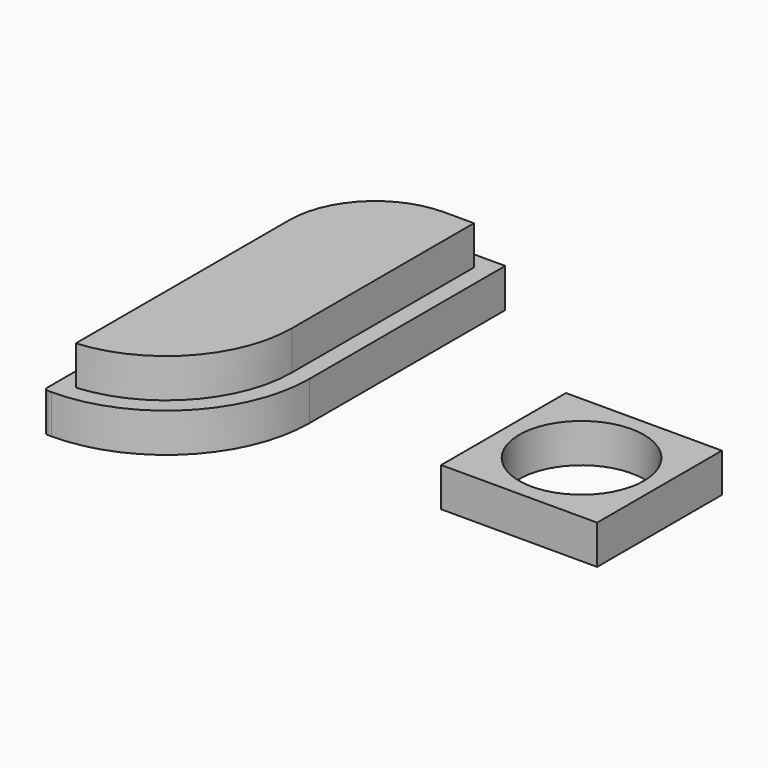
from build123d import *

# Parameters (mm, degrees)
F1_DEPTH = 25
F0_W     = 100
F0_H     = 100
F0_R     = 40
F2_DEPTH = 25


with BuildPart() as f1:
    # F0 (on Top) → F1 (new body)
    with BuildSketch(Plane.XY):
        with BuildLine():
            Line((-245.280317, 72.3851), (-245.280317, -98.741688))
            ThreePointArc((-245.280317, -98.741688), (-192.396465, -73.012728), (-170.983665, -18.238891))
            Line((-170.983665, -18.238891), (-170.983665, 127.484146))
            Line((-170.983665, 127.484146), (-190.181271, 127.484146))
            ThreePointArc((-190.181271, 127.484146), (-229.14218, 111.346009), (-245.280317, 72.3851))
        make_face()
    extrude(amount=F1_DEPTH)

    # F0 (on Top) + F1_face (on face) → F2 (join)
    with BuildSketch(Plane.XY):
        Rectangle(F0_W, F0_H)
        Circle(F0_R, mode=Mode.SUBTRACT)
        with BuildLine():
            Line((-254.091591, -110.13934), (-251.745667, -110.13934))
            ThreePointArc((-251.745667, -110.13934), (-186.762236, -83.222322), (-159.845218, -18.238891))
            Line((-159.845218, -18.238891), (-159.845218, 138.622593))
            Line((-159.845218, 138.622593), (-190.181271, 138.622593))
            ThreePointArc((-190.181271, 138.622593), (-237.018252, 119.22208), (-256.418765, 72.3851))
            Line((-256.418765, 72.3851), (-256.418765, -107.812167))
            ThreePointArc((-256.418765, -107.812167), (-255.737151, -109.457727), (-254.091591, -110.13934))
        make_face()
        with BuildLine():
            ThreePointArc((-170.983665, -18.238891), (-192.396465, -73.012728), (-245.280317, -98.741688))
            Line((-245.280317, -98.741688), (-245.280317, 72.3851))
            ThreePointArc((-245.280317, 72.3851), (-229.14218, 111.346009), (-190.181271, 127.484146))
            Line((-190.181271, 127.484146), (-170.983665, 127.484146))
            Line((-170.983665, 127.484146), (-170.983665, -18.238891))
        make_face(mode=Mode.SUBTRACT)
    with BuildSketch(Plane(origin=(-208.848316, 18.805382, 25), x_dir=(1, 0, 0), z_dir=(0, 0, 1))):
        with BuildLine():
            Line((37.864651, -37.044274), (37.864651, 108.678764))
            Line((37.864651, 108.678764), (18.667045, 108.678764))
            ThreePointArc((18.667045, 108.678764), (-20.293865, 92.540627), (-36.432002, 53.579717))
            Line((-36.432002, 53.579717), (-36.432002, -117.54707))
            ThreePointArc((-36.432002, -117.54707), (16.451851, -91.81811), (37.864651, -37.044274))
        make_face()
    extrude(amount=F2_DEPTH)


solid = f1.part
